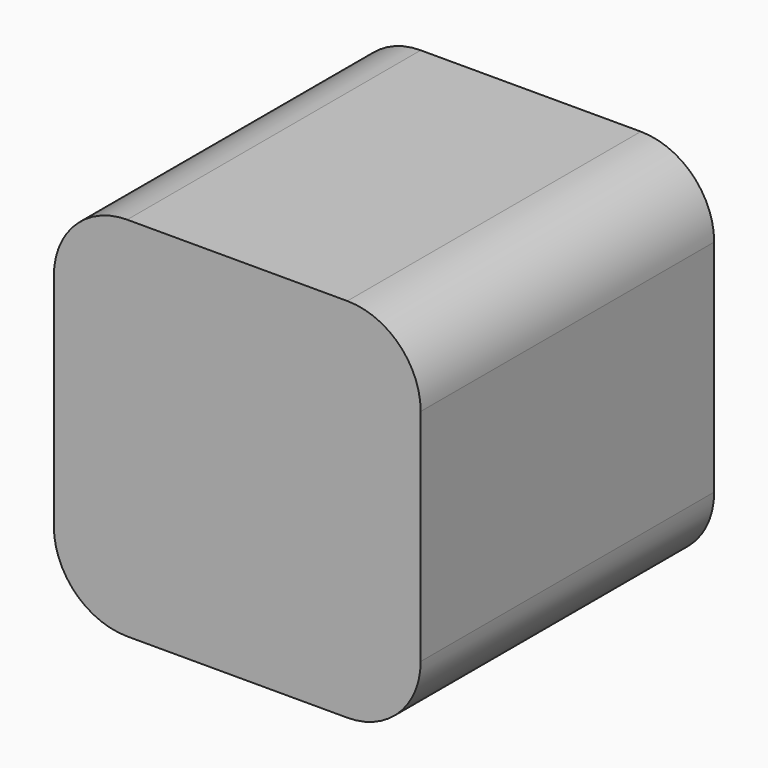
from build123d import *

# Parameters (mm, degrees)
F0_W     = 25
F0_H     = 25
F1_DEPTH = 25
F2_T     = -3
F3_R     = 5
F4_R     = 5
F5_R     = 5
F6_R     = 5


with BuildPart() as f1:
    # F0 (on Top) → F1 (new body)
    with BuildSketch(Plane.XY):
        with Locations((12.5, 12.5)):
            Rectangle(F0_W, F0_H)
    extrude(amount=F1_DEPTH)

    # F2
    f2_openings = [f1.faces().sort_by_distance(p)[0] for p in [
        (12.5, 25, 12.5),
    ]]
    offset(amount=F2_T, openings=f2_openings)

    # F3
    f3_edges = [f1.edges().sort_by_distance(p)[0] for p in [
        (25, 12.5, 25),
    ]]
    fillet(f3_edges, radius=F3_R)

    # F4
    f4_edges = [f1.edges().sort_by_distance(p)[0] for p in [
        (0, 12.5, 25),
    ]]
    fillet(f4_edges, radius=F4_R)

    # F5
    f5_edges = [f1.edges().sort_by_distance(p)[0] for p in [
        (0, 12.5, 0),
    ]]
    fillet(f5_edges, radius=F5_R)

    # F6
    f6_edges = [f1.edges().sort_by_distance(p)[0] for p in [
        (25, 12.5, 0),
    ]]
    fillet(f6_edges, radius=F6_R)


solid = f1.part
